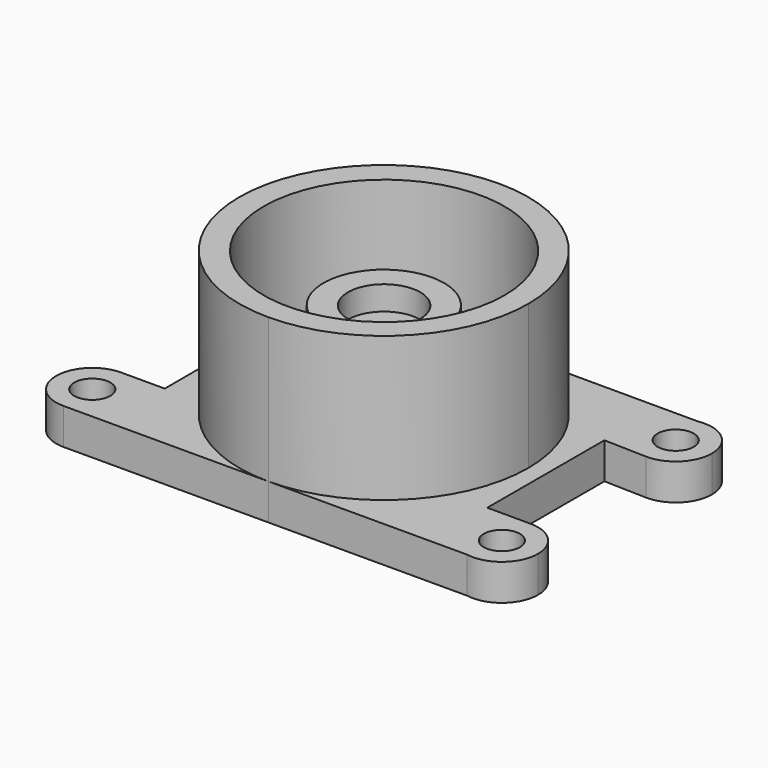
from build123d import *

# Parameters (mm, degrees)
F0_R     = 9.525
F0_R_2   = 63.5
F0_R_3   = 31.75
F1_DEPTH = 19.05
F0_R_4   = 19.05
F2_DEPTH = 50.8
F3_DEPTH = 76.2
F0_R_5   = 6.35
F4_DEPTH = 38.1


with BuildPart() as f1:
    # F0 (on Top) → F1 (new body)
    with BuildSketch(Plane.XY):
        with BuildLine():
            ThreePointArc((-88.925138, 57.292937), (-94.495836, 70.754397), (-107.949905, 76.342921))
            ThreePointArc((-107.949905, 76.342921), (-127.023485, 57.041994), (-107.448071, 38.25023))
            ThreePointArc((-107.448071, 38.25023), (-94.319679, 44.010207), (-88.925138, 57.292937))
        make_face()
        with Locations((-107.975138, 57.292937)):
            Circle(F0_R, mode=Mode.SUBTRACT)
        with BuildLine():
            ThreePointArc((-108.000371, -38.242954), (-127.025122, -57.31817), (-107.949905, -76.342921))
            ThreePointArc((-107.949905, -76.342921), (-94.495836, -70.754397), (-88.925138, -57.292937))
            ThreePointArc((-88.925138, -57.292937), (-94.513678, -43.813635), (-108.000371, -38.242954))
        make_face()
        with Locations((-107.975138, -57.292937)):
            Circle(F0_R, mode=Mode.SUBTRACT)
        with BuildLine():
            ThreePointArc((127.025138, 57.292937), (120.237356, 71.871707), (104.711172, 76.061236))
            ThreePointArc((104.711172, 76.061236), (88.974848, 55.917627), (107.448071, 38.25023))
            ThreePointArc((107.448071, 38.25023), (121.257869, 43.637478), (127.025138, 57.292937))
        make_face()
        with Locations((107.975138, 57.292937)):
            Circle(F0_R, mode=Mode.SUBTRACT)
        with BuildLine():
            ThreePointArc((108.000371, -38.242954), (88.996783, -55.642318), (104.711172, -76.061236))
            ThreePointArc((104.711172, -76.061236), (120.237356, -71.871707), (127.025138, -57.292937))
            ThreePointArc((127.025138, -57.292937), (121.454441, -43.831477), (108.000371, -38.242954))
        make_face()
        with Locations((107.975138, -57.292937)):
            Circle(F0_R, mode=Mode.SUBTRACT)
        with Locations((0.19986, -0.195171)):
            Circle(F0_R_2)
        with Locations((-0.100932, 0)):
            Circle(F0_R_3, mode=Mode.SUBTRACT)
        with BuildLine():
            ThreePointArc((0, 76.199933), (53.816278, 53.84584), (76.099068, 0))
            ThreePointArc((76.099068, 0), (53.816278, -53.84584), (0, -76.199933))
            Line((0, -76.199933), (104.711172, -76.061236))
            ThreePointArc((104.711172, -76.061236), (88.996783, -55.642318), (108.000371, -38.242954))
            Line((108.000371, -38.242954), (85.022618, -38.212518))
            Line((85.022618, -38.212518), (85.124717, 38.8681))
            Line((85.124717, 38.8681), (107.448071, 38.25023))
            ThreePointArc((107.448071, 38.25023), (88.974848, 55.917627), (104.711172, 76.061236))
            Line((104.711172, 76.061236), (0, 76.199933))
        make_face()
        with BuildLine():
            ThreePointArc((0, -76.199933), (-76.300932, 0), (0, 76.199933))
            Line((0, 76.199933), (-107.949905, 76.342921))
            ThreePointArc((-107.949905, 76.342921), (-94.495836, 70.754397), (-88.925138, 57.292937))
            ThreePointArc((-88.925138, 57.292937), (-94.319679, 44.010207), (-107.448071, 38.25023))
            Line((-107.448071, 38.25023), (-85.124717, 38.8681))
            Line((-85.124717, 38.8681), (-85.022618, -38.212518))
            Line((-85.022618, -38.212518), (-108.000371, -38.242954))
            ThreePointArc((-108.000371, -38.242954), (-94.513678, -43.813635), (-88.925138, -57.292937))
            ThreePointArc((-88.925138, -57.292937), (-94.495836, -70.754397), (-107.949905, -76.342921))
            Line((-107.949905, -76.342921), (0, -76.199933))
        make_face()
    extrude(amount=-F1_DEPTH)


with BuildPart() as f2:
    # F0 (on Top) → F2 (new body)
    with BuildSketch(Plane.XY):
        with Locations((-0.100932, 0)):
            Circle(F0_R_3)
        with Locations((0.19986, -0.195171)):
            Circle(F0_R_4, mode=Mode.SUBTRACT)
    extrude(amount=F2_DEPTH)

    # F0 (on Top) → F4 (join)
    with BuildSketch(Plane.XY):
        with Locations((0.19986, -0.195171)):
            Circle(F0_R_4)
        Circle(F0_R_5, mode=Mode.SUBTRACT)
    extrude(amount=F4_DEPTH)


with BuildPart() as f3:
    # F0 (on Top) → F3 (new body)
    with BuildSketch(Plane.XY):
        with BuildLine():
            ThreePointArc((0, -76.199933), (53.816278, -53.84584), (76.099068, 0))
            ThreePointArc((76.099068, 0), (53.816278, 53.84584), (0, 76.199933))
            ThreePointArc((0, 76.199933), (-76.300932, 0), (0, -76.199933))
        make_face()
        with Locations((0.19986, -0.195171)):
            Circle(F0_R_2, mode=Mode.SUBTRACT)
    extrude(amount=F3_DEPTH)


solid = Compound([f1.part, f2.part, f3.part])
